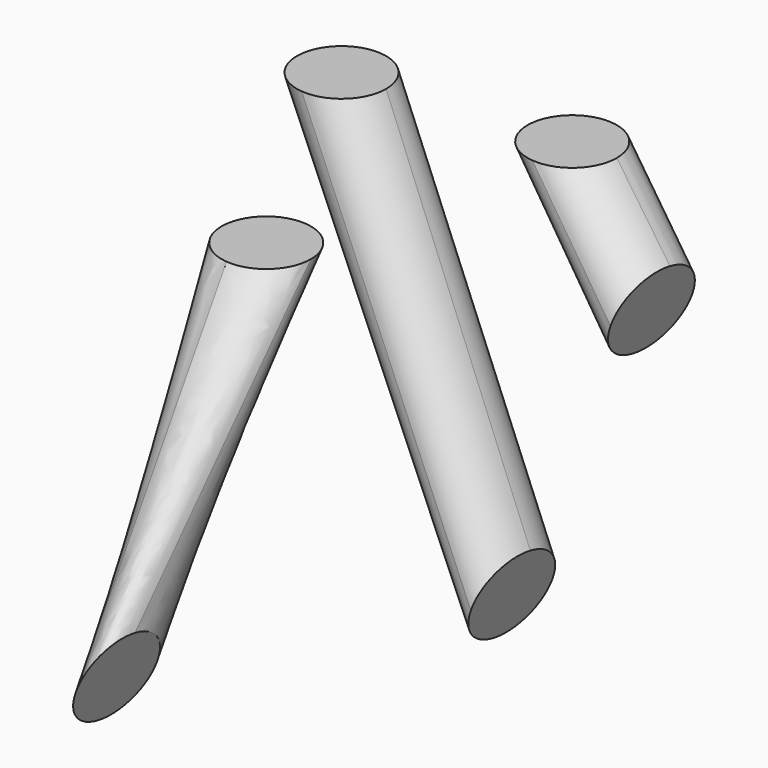
from build123d import *

# Parameters (mm, degrees)
SKETCH075_R = 2.5
SKETCH076_R = 2.5
SKETCH068_R = 2.5
SKETCH069_R = 2.5
SKETCH066_R = 2.5
SKETCH067_R = 2.5


with BuildPart() as part:
    # Sketch075 (on Face1 of Binder010) → AdditiveLoft006 section 0
    with BuildSketch(Plane(origin=(0, 0, -1.6), x_dir=(1, 0, 0), z_dir=(0, 0, -1))):
        with Locations((61.037277, 10.956422)):
            Circle(SKETCH075_R)
    # Sketch076 (on Face1 of Binder011) → AdditiveLoft006 section 1
    with BuildSketch(Plane(origin=(72.882287, -10.305781, -25.382453), x_dir=(-0.124998, -0.991201, 0.043533), z_dir=(-0.936059, 0.132362, 0.325998))):
        with Locations((4.35043, 3.570742)):
            Circle(SKETCH076_R)
    loft()

    # Sketch068 (on Face1 of Binder010) → AdditiveLoft007 section 0
    with BuildSketch(Plane(origin=(0, 0, -1.6), x_dir=(1, 0, 0), z_dir=(0, 0, -1))):
        with Locations((68.551048, 25.626923)):
            Circle(SKETCH068_R)
    # Sketch069 (on Face1 of Binder011) → AdditiveLoft007 section 1
    with BuildSketch(Plane(origin=(72.882287, -10.305781, -25.382453), x_dir=(-0.124998, -0.991201, 0.043533), z_dir=(-0.936059, 0.132362, 0.325998))):
        with Locations((30.295708, 8.596345)):
            Circle(SKETCH069_R)
    loft()

    # Sketch066 (on Face1 of Binder010) → AdditiveLoft008 section 0
    with BuildSketch(Plane(origin=(0, 0, -1.6), x_dir=(1, 0, 0), z_dir=(0, 0, -1))):
        with Locations((73.018967, 9.761001)):
            Circle(SKETCH066_R)
    # Sketch067 (on Face1 of Binder011) → AdditiveLoft008 section 1
    with BuildSketch(Plane(origin=(72.882287, -10.305781, -25.382453), x_dir=(-0.124998, -0.991201, 0.043533), z_dir=(-0.936059, 0.132362, 0.325998))):
        with Locations((1.428355, 19.231849)):
            Circle(SKETCH067_R)
    loft()


solid = part.part
